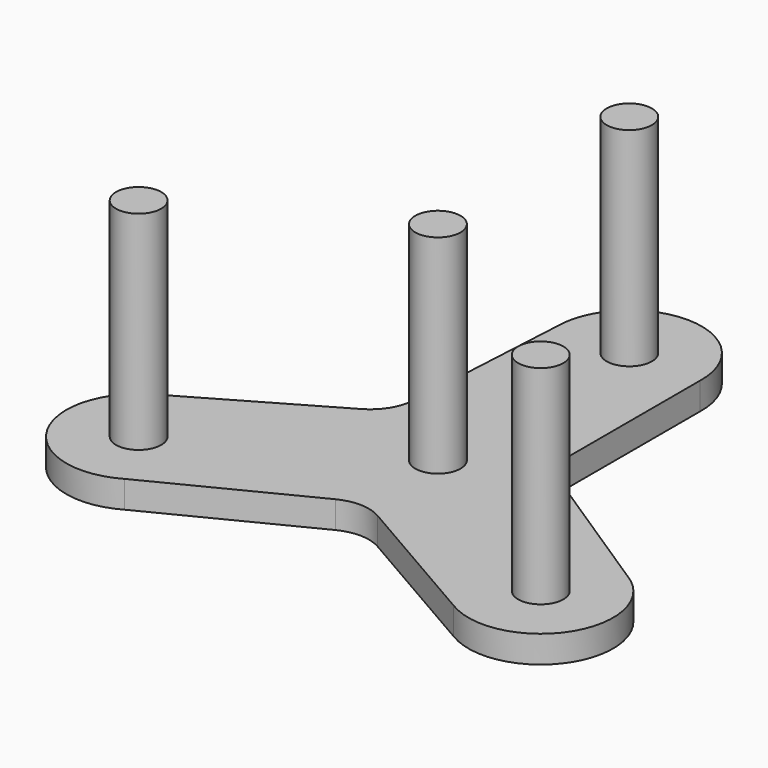
from build123d import *

# Parameters (mm, degrees)
F1_DEPTH = 3
F2_R     = 2.5
F3_DEPTH = 23


with BuildPart() as f1:
    # F0 (on Top) → F1 (new body)
    with BuildSketch(Plane.XY):
        with BuildLine():
            Line((8.3654914828, 7.7478343503), (8.3654914828, 25.7808157751))
            ThreePointArc((8.3654914828, 25.7808157751), (0.4767203504, 33.9966565171), (-7.631576467, 25.9973895632))
            Line((-7.631576467, 25.9973895632), (-8.6528857034, 7.4260866897))
            ThreePointArc((-8.6528857034, 7.4260866897), (-9.3855131516, 5.0826540918), (-11.1453419747, 3.3705145438))
            Line((-11.1453419747, 3.3705145438), (-26.7623619946, -5.6459761686))
            ThreePointArc((-26.7623619946, -5.6459761686), (-29.9331032244, -16.585772745), (-18.951386422, -19.6081302933))
            Line((-18.951386422, -19.6081302933), (-2.3575117339, -11.2069586004))
            ThreePointArc((-2.3575117339, -11.2069586004), (0.038274152, -10.6697162831), (2.400944907, -11.3377029763))
            Line((2.400944907, -11.3377029763), (18.0179649268, -20.3541936886))
            ThreePointArc((18.0179649268, -20.3541936886), (29.0774772891, -17.6302378543), (26.204057304, -6.6086133521))
            Line((26.204057304, -6.6086133521), (10.6314918524, 3.5615178285))
            ThreePointArc((10.6314918524, 3.5615178285), (8.9683334147, 5.3677081091), (8.3654914828, 7.7478343503))
        make_face()
        with BuildLine():
            ThreePointArc((-20.451386422, -12.679927063), (-25.3707248656, -13.3098488797), (-20.7688276181, -11.4607318089))
            ThreePointArc((-20.7688276181, -11.4607318089), (-20.5320479783, -12.0500052463), (-20.451386422, -12.679927063))
        make_face(mode=Mode.SUBTRACT)
        with BuildLine():
            ThreePointArc((24.704057304, -13.5368165824), (21.5399163779, -15.9469860432), (20.0569238399, -12.25626284))
            ThreePointArc((20.0569238399, -12.25626284), (22.8681982302, -11.1266471215), (24.704057304, -13.5368165824))
        make_face(mode=Mode.SUBTRACT)
        with BuildLine():
            ThreePointArc((-7.9164689421, -4.2812988086), (-7.6979940139, 4.6627125327), (0.127531223, 8.9990963873))
            ThreePointArc((0.127531223, 8.9990963873), (6.4088915191, 6.3187110629), (9, 0))
            ThreePointArc((9, 0), (8.6421794957, -2.5125153857), (7.5971703192, -4.8252464332))
            ThreePointArc((7.5971703192, -4.8252464332), (-0.315369081, -8.9944728774), (-7.9164689421, -4.2812988086))
        make_face(mode=Mode.SUBTRACT)
        with BuildLine():
            ThreePointArc((2.868423533, 25.9973895632), (2.1236210505, 24.217141919), (0.3329981933, 23.4976405667))
            ThreePointArc((0.3329981933, 23.4976405667), (-1.3867739845, 27.7776372074), (2.868423533, 25.9973895632))
        make_face(mode=Mode.SUBTRACT)
        with BuildLine():
            Line((7.5971703192, -4.8252464332), (2.0066709741, -1.4910639161))
            ThreePointArc((2.0066709741, -1.4910639161), (-0.2232494881, -2.4900119811), (-2.239906233, -1.1103243073))
            Line((-2.239906233, -1.1103243073), (-7.9164689421, -4.2812988086))
            ThreePointArc((-7.9164689421, -4.2812988086), (-0.315369081, -8.9944728774), (7.5971703192, -4.8252464332))
        make_face()
        with BuildLine():
            ThreePointArc((-2.239906233, -1.1103243073), (-2.1149683962, 1.333007383), (0.0354253397, 2.4997489965))
            Line((0.0354253397, 2.4997489965), (0.127531223, 8.9990963873))
            ThreePointArc((0.127531223, 8.9990963873), (-7.6979940139, 4.6627125327), (-7.9164689421, -4.2812988086))
            Line((-7.9164689421, -4.2812988086), (-2.239906233, -1.1103243073))
        make_face()
        with BuildLine():
            ThreePointArc((0.0354253397, 2.4997489965), (1.7802476442, 1.7551975175), (2.5, 0))
            ThreePointArc((2.5, 0), (2.3734655501, -0.7852778377), (2.0066709741, -1.4910639161))
            Line((2.0066709741, -1.4910639161), (7.5971703192, -4.8252464332))
            ThreePointArc((7.5971703192, -4.8252464332), (8.6421794957, -2.5125153857), (9, 0))
            ThreePointArc((9, 0), (6.4088915191, 6.3187110629), (0.127531223, 8.9990963873))
            Line((0.127531223, 8.9990963873), (0.0354253397, 2.4997489965))
        make_face()
        with BuildLine():
            ThreePointArc((2.868423533, 25.9973895632), (-1.3867739845, 27.7776372074), (0.3329981933, 23.4976405667))
            ThreePointArc((0.3329981933, 23.4976405667), (2.1236210505, 24.217141919), (2.868423533, 25.9973895632))
        make_face()
        with BuildLine():
            ThreePointArc((24.704057304, -13.5368165824), (22.8681982302, -11.1266471215), (20.0569238399, -12.25626284))
            ThreePointArc((20.0569238399, -12.25626284), (21.5399163779, -15.9469860432), (24.704057304, -13.5368165824))
        make_face()
        with BuildLine():
            ThreePointArc((2.0066709741, -1.4910639161), (2.3734655501, -0.7852778377), (2.5, 0))
            ThreePointArc((2.5, 0), (1.7802476442, 1.7551975175), (0.0354253397, 2.4997489965))
            ThreePointArc((0.0354253397, 2.4997489965), (-2.1149683962, 1.333007383), (-2.239906233, -1.1103243073))
            ThreePointArc((-2.239906233, -1.1103243073), (-0.2232494881, -2.4900119811), (2.0066709741, -1.4910639161))
        make_face()
        with BuildLine():
            ThreePointArc((-20.451386422, -12.679927063), (-20.5320479783, -12.0500052463), (-20.7688276181, -11.4607318089))
            ThreePointArc((-20.7688276181, -11.4607318089), (-25.3707248656, -13.3098488797), (-20.451386422, -12.679927063))
        make_face()
    extrude(amount=F1_DEPTH)

    # F2 (on face) → F3 (join)
    with BuildSketch(Plane.XY.offset(3)):
        with Locations((-22.951386422, -12.679927063)):
            Circle(F2_R)
        with Locations((0.368423533, 25.9973895632)):
            Circle(F2_R)
        with Locations((22.204057304, -13.5368165824)):
            Circle(F2_R)
        Circle(F2_R)
    extrude(amount=F3_DEPTH)


solid = f1.part
